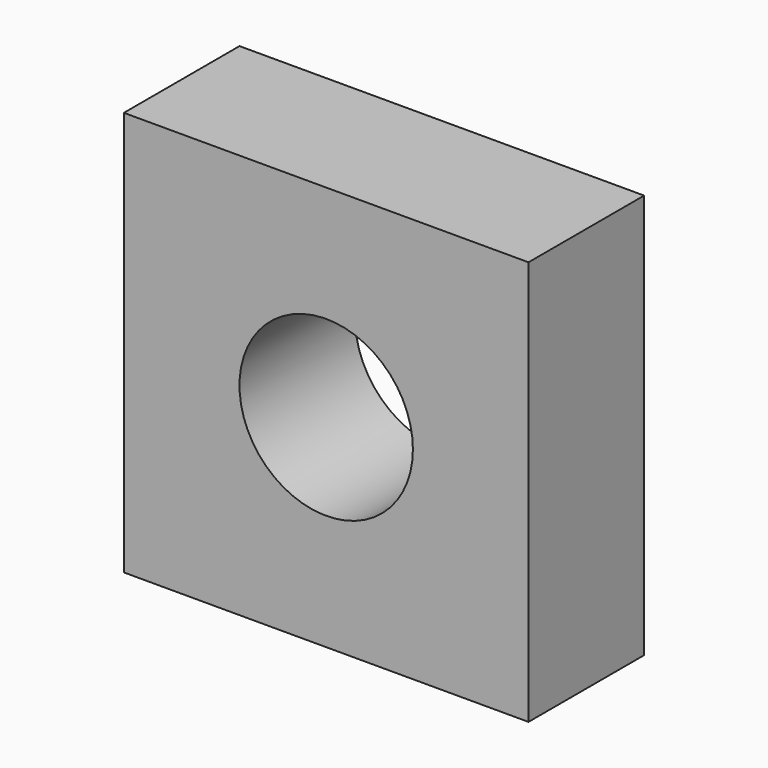
from build123d import *

# Parameters (mm, degrees)
F0_W     = 70
F0_H     = 70
F1_DEPTH = 25
F2_R     = 15
F3_DEPTH = 25


with BuildPart() as f1:
    # F0 (on Front) → F1 (new body)
    with BuildSketch(Plane.XZ):
        Rectangle(F0_W, F0_H)
    extrude(amount=F1_DEPTH)

    # F2 (on Front) → F3 (cut)
    with BuildSketch(Plane.XZ):
        Circle(F2_R)
    extrude(amount=F3_DEPTH, mode=Mode.SUBTRACT)


solid = f1.part
